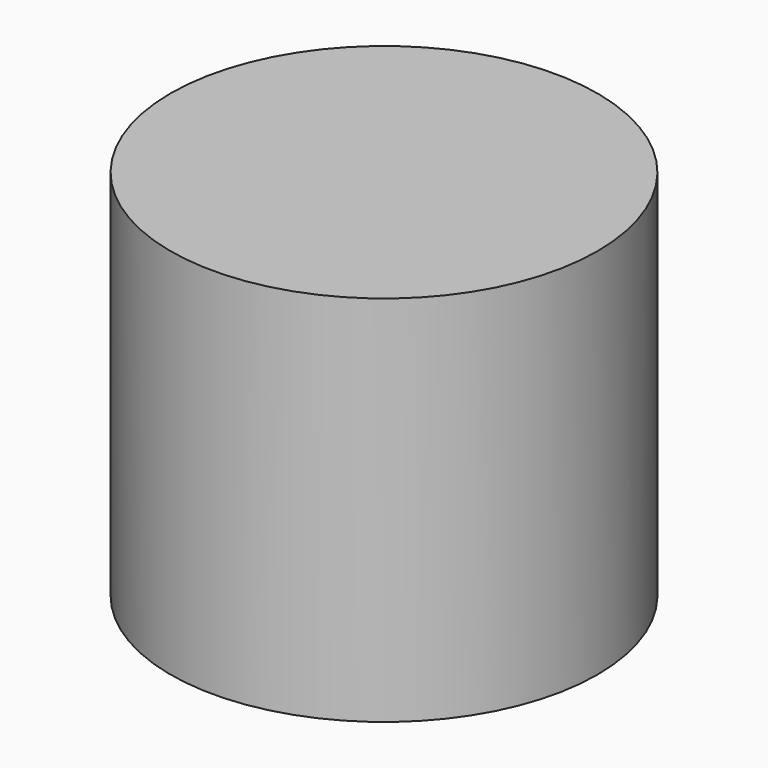
from build123d import *

# Parameters (mm, degrees)
F0_R     = 18.9
F1_DEPTH = 3.3
F2_R     = 15.9
F3_DEPTH = 1.7
F4_DEPTH = 16.4
F5_DEPTH = 33


with BuildPart() as f1:
    # F0 (on Top) → F1 (new body)
    with BuildSketch(Plane.XY):
        Circle(F0_R)
    extrude(amount=F1_DEPTH)


with BuildPart() as f3:
    # F2 (on Top) → F3 (new body)
    with BuildSketch(Plane.XY):
        Circle(F2_R)
    extrude(amount=F3_DEPTH)


with BuildPart() as f4:
    # F2 (on Top) → F4 (new body)
    with BuildSketch(Plane.XY):
        Circle(F2_R)
    extrude(amount=F4_DEPTH)


with BuildPart() as f5:
    # F0 (on Top) → F5 (new body)
    with BuildSketch(Plane.XY):
        Circle(F0_R)
    extrude(amount=F5_DEPTH)


solid = Compound([f1.part, f3.part, f4.part, f5.part])
